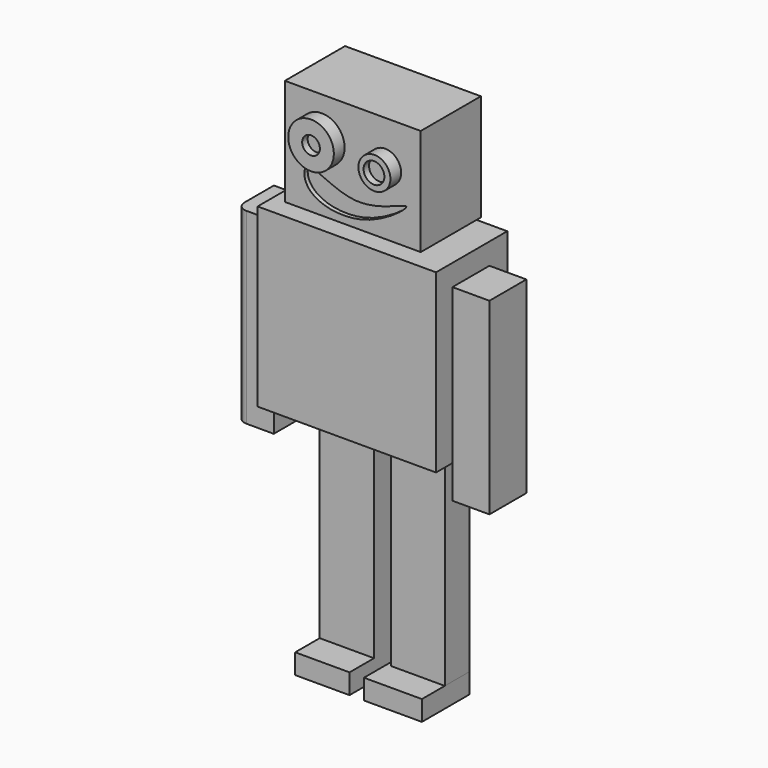
from build123d import *

# Parameters (mm, degrees)
F0_W      = 67.6028169692
F0_H      = 53.0741475523
F1_DEPTH  = 37.4
F2_R      = 11.3511276649
F2_R_2    = 7.9567380282
F3_DEPTH  = 6.7
F4_R      = 4.4090907082
F4_R_2    = 5.1686616875
F5_DEPTH  = 3.4
F7_DEPTH  = 2.1
F8_W      = 34.6914194524
F8_H      = 6.529385224
F9_DEPTH  = 4.6
F10_W     = 88.7872502208
F10_H     = 44.3032570183
F11_DEPTH = 87.7
F12_W     = 22.9829689488
F12_H     = 93.6014018953
F13_DEPTH = 18.4
F14_W     = 23.3173291199
F14_H     = 77.2590063095
F14_H_2   = 16.0102971315
F15_DEPTH = 18.6
F16_W     = 27.0305555314
F16_H     = 14.4476275891
F16_W_2   = 26.7750890926
F16_H_2   = 15.4520794749
F17_DEPTH = 103
F18_W     = 27.0305555314
F18_H     = 29.6849496663
F18_W_2   = 28.8268793374
F19_DEPTH = 10
F20_R     = 5


with BuildPart() as f1:
    # F0 (on Front) → F1 (new body)
    with BuildSketch(Plane.XZ):
        with Locations((1.2461747974, -5.0753373653)):
            Rectangle(F0_W, F0_H)
    extrude(amount=F1_DEPTH)

    # F2 (on face) → F3 (join)
    with BuildSketch(Plane.XZ.offset(37.4)):
        with Locations((-14.182465151, 1.8661138602)):
            Circle(F2_R)
        with Locations((17.3548590392, 0)):
            Circle(F2_R_2)
    extrude(amount=F3_DEPTH)

    # F4 (on face) → F5 (cut)
    with BuildSketch(Plane.XZ.offset(44.1)):
        with Locations((-14.182465151, 1.8661138602)):
            Circle(F4_R)
        with Locations((17.1402301639, 0)):
            Circle(F4_R_2)
    extrude(amount=-F5_DEPTH, mode=Mode.SUBTRACT)

    # F6 (on face) → F7 (cut)
    with BuildSketch(Plane.XZ.offset(37.4)):
        with BuildLine():
            add(Edge.make_bspline(
                [(-21.2736967951, -12.5029627234), (-17.6056978222, -10.7879533319), (1.7937398343, -27.2198277591), (39.0741519283, -6.345360962), (7.1844121531, -32.2427894232), (-23.5988764514, -26.0051011351), (-23.4195291506, -13.5062679776), (-21.2736967951, -12.5029627234)],
                knots=[0, 0, 0, 0, 0.217341047, 0.4323199028, 0.6402459683, 0.8728523496, 1, 1, 1, 1], degree=3))
        make_face()
    extrude(amount=-F7_DEPTH, mode=Mode.SUBTRACT)

    # F8 (on face) → F9 (join)
    with BuildSketch(Plane(origin=(0, 0, -31.6124111414), x_dir=(1, 0, 0), z_dir=(0, 0, -1))):
        with Locations((2.0386911929, 19.4482291117)):
            Rectangle(F8_W, F8_H)
    extrude(amount=F9_DEPTH)

    # F10 (on face) → F11 (join)
    with BuildSketch(Plane(origin=(0, 0, -36.2124111414), x_dir=(1, 0, 0), z_dir=(0, 0, -1))):
        with Locations((0.4012212157, 17.9098602384)):
            Rectangle(F10_W, F10_H)
    extrude(amount=F11_DEPTH)

    # F12 (on face) → F13 (join)
    with BuildSketch(Plane.YZ.offset(44.7948463261)):
        with Locations((-18.3663782664, -93.6325211078)):
            Rectangle(F12_W, F12_H)
    extrude(amount=F13_DEPTH)

    # F14 (on face) → F15 (join)
    with BuildSketch(Plane(origin=(-43.9924038947, 0, 0), x_dir=(0, -1, 0), z_dir=(-1, 0, 0))):
        with Locations((18.3590447996, -85.2829079866)):
            Rectangle(F14_W, F14_H)
        with Locations((18.3590447996, -131.9175597072)):
            Rectangle(F14_W, F14_H_2)
    extrude(amount=F15_DEPTH)

    # F16 (on face) → F17 (join)
    with BuildSketch(Plane(origin=(0, 0, -123.9124111414), x_dir=(1, 0, 0), z_dir=(0, 0, -1))):
        with Locations((-13.5152777657, 15.4278827831)):
            Rectangle(F16_W, F16_H)
        with Locations((22.6432844065, 15.930108726)):
            Rectangle(F16_W_2, F16_H_2)
    extrude(amount=F17_DEPTH)

    # F18 (on face) → F19 (join)
    with BuildSketch(Plane(origin=(0, 0, -226.9124111414), x_dir=(1, 0, 0), z_dir=(0, 0, -1))):
        with Locations((-13.5152777657, 23.0465438217)):
            Rectangle(F18_W, F18_H)
        with Locations((21.6039149091, 23.0465438217)):
            Rectangle(F18_W_2, F18_H)
    extrude(amount=F19_DEPTH)

    # F20
    f20_edges = [f1.edges().sort_by_distance(p)[0] for p in [
        (-62.592404, -30.017709, -93.288057),
    ]]
    fillet(f20_edges, radius=F20_R)


solid = f1.part
